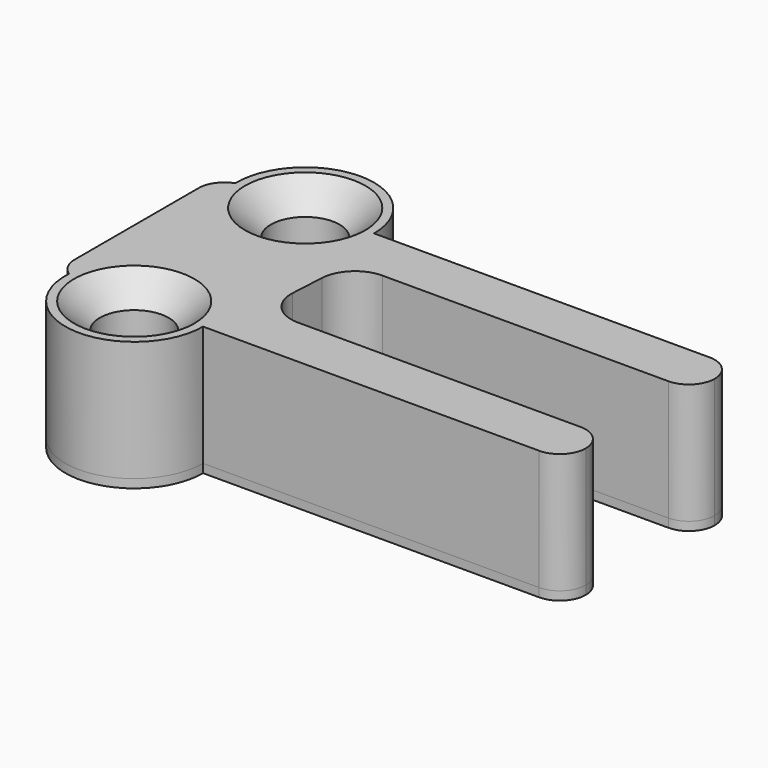
from build123d import *

# Parameters (mm, degrees)
F1_DEPTH = 7
F2_DEPTH = 0.5
F3_SIZE  = 1.5


with BuildPart() as f1:
    # F0 (on Top) → F1 (new body)
    with BuildSketch(Plane.XY):
        with BuildLine():
            ThreePointArc((9.8694702636, -4.4606494482), (9.4166416974, -3.4255173739), (8.3699865077, -3))
            Line((8.3699865077, -3), (-8.0531213294, -3))
            ThreePointArc((-8.0531213294, -3), (-9.5065298079, -2.3739009406), (-10.0499606051, -0.8876037946))
            Line((-10.0499606051, -0.8876037946), (-9.9373864918, 1.1123962054))
            ThreePointArc((-9.9373864918, 1.1123962054), (-9.3144481567, 2.4534084785), (-7.9405472161, 3))
            Line((-7.9405472161, 3), (8.6688611699, 3))
            ThreePointArc((8.6688611699, 3), (9.7295213417, 3.4393398282), (10.1688611699, 4.5))
            ThreePointArc((10.1688611699, 4.5), (9.7295213417, 5.5606601718), (8.6688611699, 6))
            Line((8.6688611699, 6), (-10.8311388301, 6))
            ThreePointArc((-10.8311388301, 6), (-14.788404424, 2.0002282852), (-18.8302257154, 5.9145360656))
            ThreePointArc((-18.8302257154, 5.9145360656), (-19.5556040864, 5.3664207038), (-19.8311388301, 4.5))
            Line((-19.8311388301, 4.5), (-19.8311388301, -4.5))
            ThreePointArc((-19.8311388301, -4.5), (-19.6530330387, -5.2089398432), (-19.1610112284, -5.7495246306))
            ThreePointArc((-19.1610112284, -5.7495246306), (-15.0435619957, -2.001962967), (-11.1688611699, -6))
            Line((-11.1688611699, -6), (8.3699865077, -6))
            ThreePointArc((8.3699865077, -6), (9.4444691339, -5.5466551897), (9.8694702636, -4.4606494482))
        make_face()
        with BuildLine():
            ThreePointArc((-19.1610112284, -5.7495246306), (-15.2941603441, -9.998037033), (-11.1688611699, -6))
            Line((-11.1688611699, -6), (-13.1688611699, -6))
            ThreePointArc((-13.1688611699, -6), (-15.1688611699, -8), (-17.1688611699, -6))
            Line((-17.1688611699, -6), (-18.3311388301, -6))
            ThreePointArc((-18.3311388301, -6), (-18.7645630184, -5.9360165295), (-19.1610112284, -5.7495246306))
        make_face()
        with BuildLine():
            Line((-13.1688611699, -6), (-11.1688611699, -6))
            ThreePointArc((-11.1688611699, -6), (-15.0435619957, -2.001962967), (-19.1610112284, -5.7495246306))
            ThreePointArc((-19.1610112284, -5.7495246306), (-18.7645630184, -5.9360165295), (-18.3311388301, -6))
            Line((-18.3311388301, -6), (-17.1688611699, -6))
            ThreePointArc((-17.1688611699, -6), (-15.1688611699, -4), (-13.1688611699, -6))
        make_face()
        with BuildLine():
            ThreePointArc((-10.8311388301, 6), (-14.8738732362, 9.9997717148), (-18.8302257154, 5.9145360656))
            ThreePointArc((-18.8302257154, 5.9145360656), (-18.5843145611, 5.9784796411), (-18.3311388301, 6))
            Line((-18.3311388301, 6), (-16.8311388301, 6))
            ThreePointArc((-16.8311388301, 6), (-14.8311388301, 8), (-12.8311388301, 6))
            Line((-12.8311388301, 6), (-10.8311388301, 6))
        make_face()
        with BuildLine():
            ThreePointArc((-18.3311388301, 6), (-18.5843145611, 5.9784796411), (-18.8302257154, 5.9145360656))
            ThreePointArc((-18.8302257154, 5.9145360656), (-14.788404424, 2.0002282852), (-10.8311388301, 6))
            Line((-10.8311388301, 6), (-12.8311388301, 6))
            ThreePointArc((-12.8311388301, 6), (-14.8311388301, 4), (-16.8311388301, 6))
            Line((-16.8311388301, 6), (-18.3311388301, 6))
        make_face()
    extrude(amount=F1_DEPTH)

    # F0 (on Top) → F2 (join)
    with BuildSketch(Plane.XY):
        with BuildLine():
            ThreePointArc((9.8694702636, -4.4606494482), (9.4166416974, -3.4255173739), (8.3699865077, -3))
            Line((8.3699865077, -3), (-8.0531213294, -3))
            ThreePointArc((-8.0531213294, -3), (-9.5065298079, -2.3739009406), (-10.0499606051, -0.8876037946))
            Line((-10.0499606051, -0.8876037946), (-9.9373864918, 1.1123962054))
            ThreePointArc((-9.9373864918, 1.1123962054), (-9.3144481567, 2.4534084785), (-7.9405472161, 3))
            Line((-7.9405472161, 3), (8.6688611699, 3))
            ThreePointArc((8.6688611699, 3), (9.7295213417, 3.4393398282), (10.1688611699, 4.5))
            ThreePointArc((10.1688611699, 4.5), (9.7295213417, 5.5606601718), (8.6688611699, 6))
            Line((8.6688611699, 6), (-10.8311388301, 6))
            ThreePointArc((-10.8311388301, 6), (-14.788404424, 2.0002282852), (-18.8302257154, 5.9145360656))
            ThreePointArc((-18.8302257154, 5.9145360656), (-19.5556040864, 5.3664207038), (-19.8311388301, 4.5))
            Line((-19.8311388301, 4.5), (-19.8311388301, -4.5))
            ThreePointArc((-19.8311388301, -4.5), (-19.6530330387, -5.2089398432), (-19.1610112284, -5.7495246306))
            ThreePointArc((-19.1610112284, -5.7495246306), (-15.0435619957, -2.001962967), (-11.1688611699, -6))
            Line((-11.1688611699, -6), (8.3699865077, -6))
            ThreePointArc((8.3699865077, -6), (9.4444691339, -5.5466551897), (9.8694702636, -4.4606494482))
        make_face()
        with BuildLine():
            ThreePointArc((-19.1610112284, -5.7495246306), (-15.2941603441, -9.998037033), (-11.1688611699, -6))
            Line((-11.1688611699, -6), (-13.1688611699, -6))
            ThreePointArc((-13.1688611699, -6), (-15.1688611699, -8), (-17.1688611699, -6))
            Line((-17.1688611699, -6), (-18.3311388301, -6))
            ThreePointArc((-18.3311388301, -6), (-18.7645630184, -5.9360165295), (-19.1610112284, -5.7495246306))
        make_face()
        with BuildLine():
            Line((-13.1688611699, -6), (-11.1688611699, -6))
            ThreePointArc((-11.1688611699, -6), (-15.0435619957, -2.001962967), (-19.1610112284, -5.7495246306))
            ThreePointArc((-19.1610112284, -5.7495246306), (-18.7645630184, -5.9360165295), (-18.3311388301, -6))
            Line((-18.3311388301, -6), (-17.1688611699, -6))
            ThreePointArc((-17.1688611699, -6), (-15.1688611699, -4), (-13.1688611699, -6))
        make_face()
        with BuildLine():
            ThreePointArc((-10.8311388301, 6), (-14.8738732362, 9.9997717148), (-18.8302257154, 5.9145360656))
            ThreePointArc((-18.8302257154, 5.9145360656), (-18.5843145611, 5.9784796411), (-18.3311388301, 6))
            Line((-18.3311388301, 6), (-16.8311388301, 6))
            ThreePointArc((-16.8311388301, 6), (-14.8311388301, 8), (-12.8311388301, 6))
            Line((-12.8311388301, 6), (-10.8311388301, 6))
        make_face()
        with BuildLine():
            ThreePointArc((-18.3311388301, 6), (-18.5843145611, 5.9784796411), (-18.8302257154, 5.9145360656))
            ThreePointArc((-18.8302257154, 5.9145360656), (-14.788404424, 2.0002282852), (-10.8311388301, 6))
            Line((-10.8311388301, 6), (-12.8311388301, 6))
            ThreePointArc((-12.8311388301, 6), (-14.8311388301, 4), (-16.8311388301, 6))
            Line((-16.8311388301, 6), (-18.3311388301, 6))
        make_face()
        with BuildLine():
            Line((-16.8311388301, 6), (-12.8311388301, 6))
            ThreePointArc((-12.8311388301, 6), (-14.8311388301, 8), (-16.8311388301, 6))
        make_face()
        with BuildLine():
            ThreePointArc((-16.8311388301, 6), (-14.8311388301, 4), (-12.8311388301, 6))
            Line((-12.8311388301, 6), (-16.8311388301, 6))
        make_face()
        with BuildLine():
            Line((-17.1688611699, -6), (-13.1688611699, -6))
            ThreePointArc((-13.1688611699, -6), (-15.1688611699, -4), (-17.1688611699, -6))
        make_face()
        with BuildLine():
            ThreePointArc((-17.1688611699, -6), (-15.1688611699, -8), (-13.1688611699, -6))
            Line((-13.1688611699, -6), (-17.1688611699, -6))
        make_face()
    extrude(amount=-F2_DEPTH)

    # F3
    f3_edges = [f1.edges().sort_by_distance(p)[0] for p in [
        (-12.831139, 6, 7),
        (-17.168861, -6, 7),
    ]]
    chamfer(f3_edges, length=F3_SIZE)


solid = f1.part
